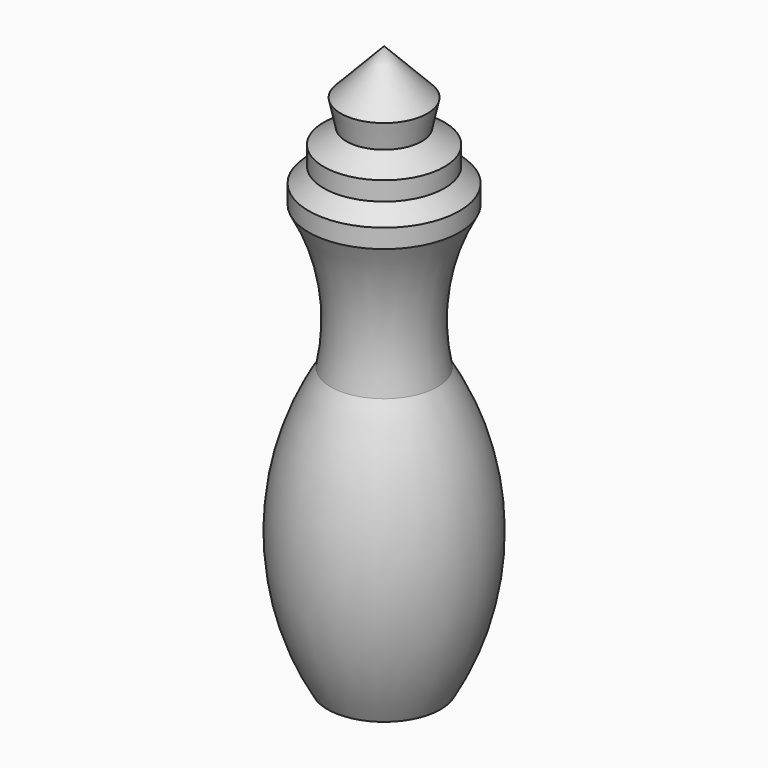
from build123d import *


with BuildPart() as f1:
    # F0 (on Front) → F1 (revolve)
    with BuildSketch(Plane.XZ):
        with BuildLine():
            Line((0, -75), (7.5, -75))
            ThreePointArc((7.5, -75), (12.497621, -56.190356), (7.070882, -37.5))
            ThreePointArc((7.070882, -37.5), (6.821078, -27.735707), (10, -18.5))
            Line((10, -18.5), (10, -16))
            Line((10, -16), (8, -14))
            Line((8, -14), (8, -11.5))
            Line((8, -11.5), (5, -9.5))
            Line((5, -9.5), (5.75, -6))
            Line((5.75, -6), (0, 0))
            Line((0, 0), (0, -75))
        make_face()
    revolve(axis=Axis((0, 0, -37.5), (0, 0, 1)))


solid = f1.part
